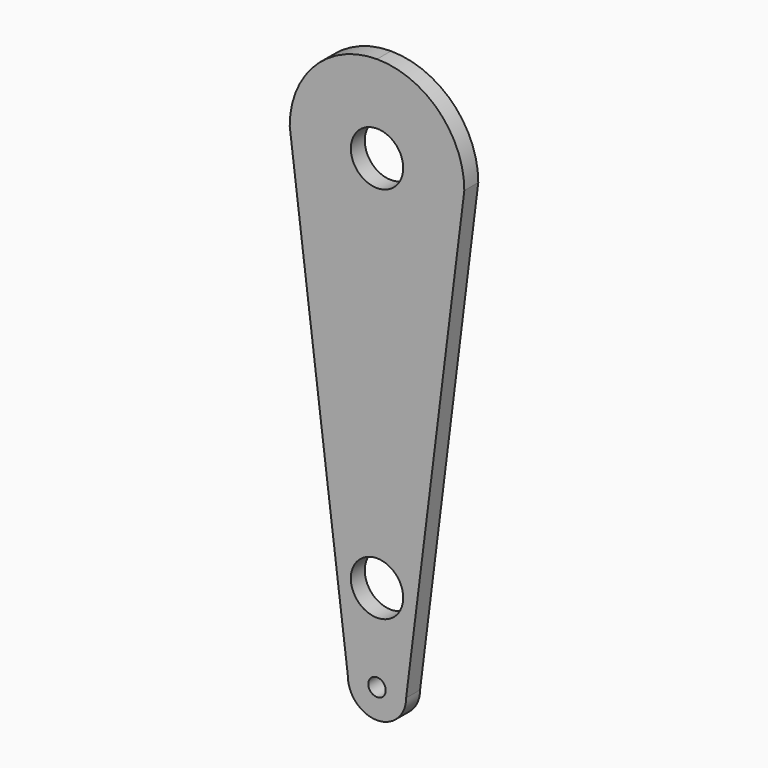
from build123d import *

# Parameters (mm, degrees)
F0_R     = 1.5
F0_R_2   = 4.5
F1_DEPTH = 3


with BuildPart() as f1:
    # F0 (on Front) → F1 (new body)
    with BuildSketch(Plane.XZ):
        with BuildLine():
            ThreePointArc((-5, -45.000002), (-3.535534, -48.535536), (0, -50.000002))
            ThreePointArc((0, -50.000002), (3.535534, -48.535536), (5, -45.000002))
            Line((5, -45.000002), (15, 35))
            ThreePointArc((15, 35), (10.606602, 45.606602), (0, 50))
            ThreePointArc((0, 50), (-10.606602, 45.606602), (-15, 35))
            Line((-15, 35), (-5, -45.000002))
        make_face()
        with Locations((0, -45.000002)):
            Circle(F0_R, mode=Mode.SUBTRACT)
        with Locations((0, -30)):
            Circle(F0_R_2, mode=Mode.SUBTRACT)
        with Locations((0, 35)):
            Circle(F0_R_2, mode=Mode.SUBTRACT)
    extrude(amount=F1_DEPTH)


solid = f1.part
